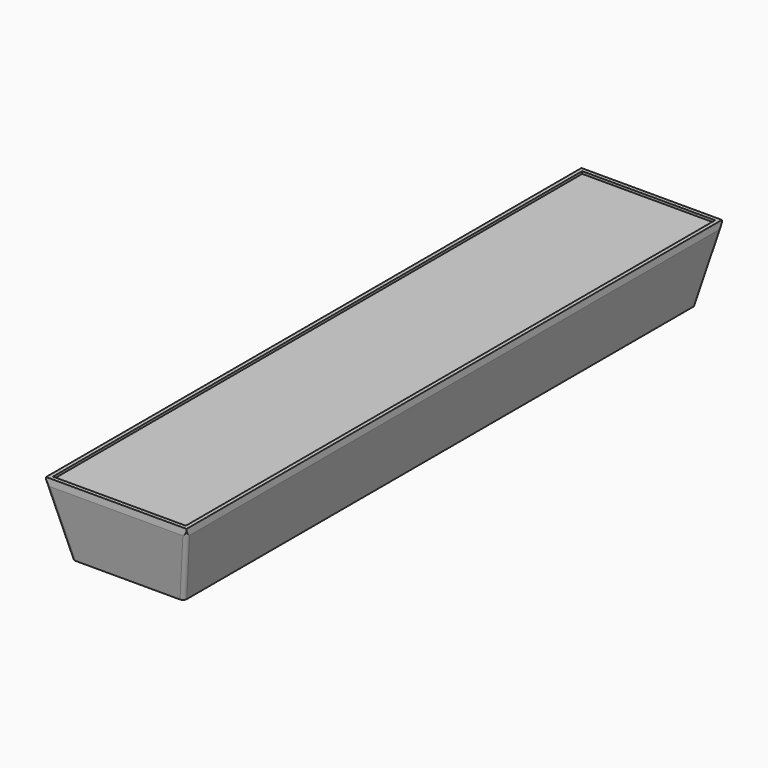
from build123d import *

# Parameters (mm, degrees)
F1_W     = 29.5
F1_H     = 140.5
F1_W_2   = 27.9
F1_H_2   = 138.9
F2_DEPTH = 0.5
F3_DEPTH = 15
F4_SIZE2 = 14
F4_SIZE  = 3
F5_R     = 0.8
F7_DEPTH = 10


with BuildPart() as f2:
    # F1 (on Top) → F2 (new body)
    with BuildSketch(Plane.XY):
        Rectangle(F1_W, F1_H)
        Rectangle(F1_W_2, F1_H_2, mode=Mode.SUBTRACT)
    extrude(amount=F2_DEPTH)

    # F1 (on Top) → F3 (join)
    with BuildSketch(Plane.XY):
        Rectangle(F1_W, F1_H)
        Rectangle(F1_W_2, F1_H_2, mode=Mode.SUBTRACT)
        Rectangle(F1_W_2, F1_H_2)
    extrude(amount=-F3_DEPTH)

    # F4
    f4_edges = [f2.edges().sort_by_distance(p)[0] for p in [
        (0, -70.25, -15),
        (14.75, 0, -15),
        (0, 70.25, -15),
        (-14.75, 0, -15),
    ]]
    f4_side = f2.faces().sort_by_distance((0, 0, -15))[0]
    chamfer(f4_edges, length=F4_SIZE, length2=F4_SIZE2, reference=f4_side)

    # F5
    f5_edges = [f2.edges().sort_by_distance(p)[0] for p in [
        (13.25, 68.75, -8),
        (-13.25, 68.75, -8),
        (13.25, -68.75, -8),
        (-13.25, -68.75, -8),
    ]]
    fillet(f5_edges, radius=F5_R)

    # F6 (on face) → F7 (cut)
    with BuildSketch(Plane(origin=(0, 0, -15), x_dir=(1, 0, 0), z_dir=(0, 0, -1))):
        Polygon((-8.55, 37.1863448016), (-8.55, 27.3136551984), (0, 22.3773103969), (8.55, 27.3136551984), (8.55, 37.1863448016), (0, 42.1226896031), align=None)
        Polygon((-8.55, -37.1863448016), (0, -42.1226896031), (8.55, -37.1863448016), (8.55, -27.3136551984), (0, -22.3773103969), (-8.55, -27.3136551984), align=None)
    extrude(amount=-F7_DEPTH, mode=Mode.SUBTRACT)


solid = f2.part
